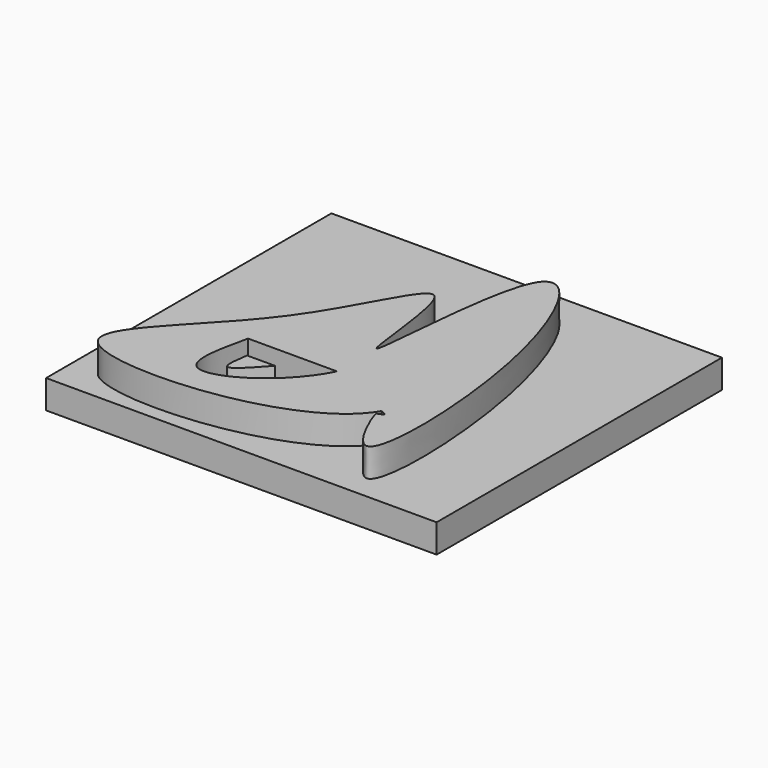
from build123d import *

# Parameters (mm, degrees)
F0_W     = 15.6148327515
F0_H     = 8.6711440235
F1_DEPTH = 5
F3_DEPTH = 5
F4_W     = 68.5134455562
F4_H     = 62.5702701509
F5_DEPTH = 5


with BuildPart() as f1:
    # F0 (on Top) → F1 (new body)
    with BuildSketch(Plane.XY):
        with BuildLine():
            Line((-15.6148327515, 0), (0, 0))
            add(Edge.make_bspline(
                [(-15.6148327515, 0), (-8.9372500336, 9.1029204064), (-2.2477140541, 29.6426476673), (-0.6363883786, 0.0078806838), (0, 0)],
                knots=[0.5007531788, 0.5007531788, 0.5007531788, 0.5007531788, 0.5806839228, 0.6532089623, 0.6532089623, 0.6532089623, 0.6532089623], degree=3))
        make_face()
        with BuildLine():
            Line((-15.6148327515, -8.6711440235), (-15.6148327515, 0))
            add(Edge.make_bspline(
                [(12.0928417891, -14.0651799738), (5.386580395, -25.6612903483), (-49.9212476219, -29.049867362), (-23.2419077071, -10.3972738622), (-15.6148327515, 0)],
                knots=[0.2936885694, 0.2936885694, 0.2936885694, 0.2936885694, 0.4094570015, 0.5007531788, 0.5007531788, 0.5007531788, 0.5007531788], degree=3))
            add(Edge.make_bspline(
                [(0, -8.6711440235), (3.7584985414, -1.2441509088), (1.9211653663, 20.0410270227), (16.9917902231, -5.5941790062), (12.0928417891, -14.0651799738)],
                knots=[0.1348423555, 0.1348423555, 0.1348423555, 0.1348423555, 0.2091193071, 0.2936885694, 0.2936885694, 0.2936885694, 0.2936885694], degree=3))
            add(Edge.make_bspline(
                [(-15.6148327515, -8.6711440235), (-16.7391498892, -13.622858393), (-19.3413703684, -25.0835499715), (-3.8751508711, -16.3286483489), (0, -8.6711440235)],
                knots=[0, 0, 0, 0, 0.0582600739, 0.1348423555, 0.1348423555, 0.1348423555, 0.1348423555], degree=3))
        make_face()
        with BuildLine():
            add(Edge.make_bspline(
                [(0, 0), (0.837458348, -0.0103706237), (1.9500780727, 44.3228880047), (19.3895903674, 12.2973607043), (20.3959204885, -35.025724631), (12.2675216154, -16.7139183871), (11.9997626171, -15.0897074491)],
                knots=[0.6532089623, 0.6532089623, 0.6532089623, 0.6532089623, 0.7486486369, 0.8266926063, 0.9316650104, 0.985804196, 0.985804196, 0.985804196, 0.985804196], degree=3))
            Line((0, 0), (0, -8.6711440235))
            add(Edge.make_bspline(
                [(0, -8.6711440235), (3.7584985414, -1.2441509088), (1.9211653663, 20.0410270227), (16.9917902231, -5.5941790062), (12.0928417891, -14.0651799738)],
                knots=[0.1348423555, 0.1348423555, 0.1348423555, 0.1348423555, 0.2091193071, 0.2936885694, 0.2936885694, 0.2936885694, 0.2936885694], degree=3))
            add(Edge.make_bspline(
                [(12.0928417891, -14.0651799738), (12.5539589764, -14.2266429433), (13.4985312959, -14.5573913273), (12.5071668502, -14.9094929242), (11.9997626171, -15.0897074491)],
                knots=[0, 0, 0, 0, 0.4881756567, 1, 1, 1, 1], degree=3))
        make_face()
        with Locations((-7.8074163757, -4.3355720118)):
            Rectangle(F0_W, F0_H)
    extrude(amount=F1_DEPTH)



with BuildPart() as f3:
    # F2 (on Top) → F3 (new body)
    with BuildSketch(Plane.XY):
        with BuildLine():
            add(Edge.make_bspline(
                [(-12.5829353929, -12.6812420785), (-12.8800111884, -14.6944980362), (-13.5429496039, -19.1871719349), (-9.7677541735, -14.9948836926), (-7.6842978597, -12.6812420785)],
                knots=[0, 0, 0, 0, 0.4481197185, 1, 1, 1, 1], degree=3))
            Line((-7.6842978597, -12.6812420785), (-12.5829353929, -12.6812420785))
        make_face()
    extrude(amount=F3_DEPTH)


with BuildPart() as f1_1:
    add(f1.part)

    add(f3.part)  # F5 merges F3
    # F4 (on Top) → F5 (join)
    with BuildSketch(Plane.XY):
        with Locations((-1.6445852816, 3.6791656166)):
            Rectangle(F4_W, F4_H)
    extrude(amount=-F5_DEPTH)


solid = f1_1.part
